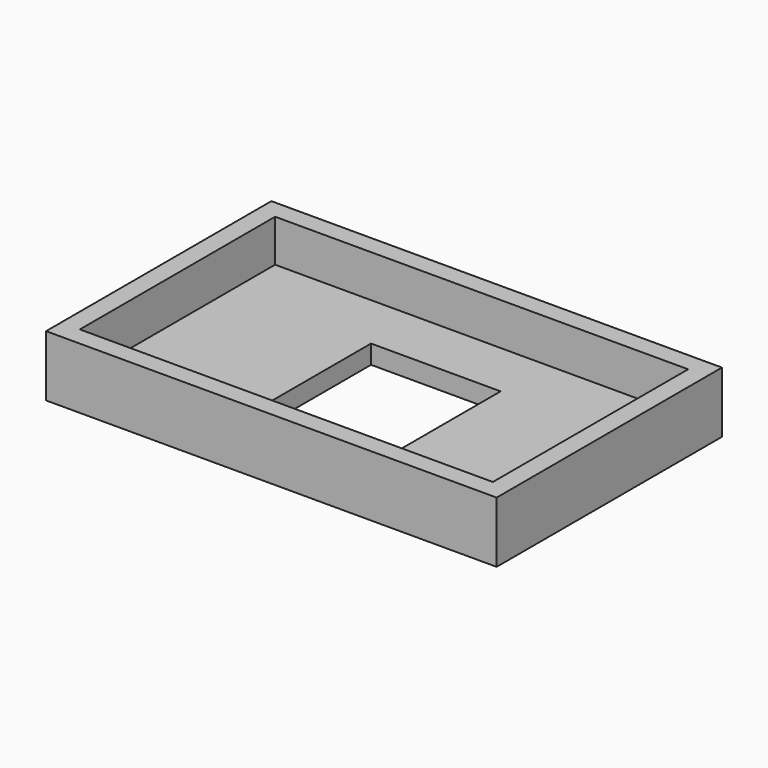
from build123d import *

# Parameters (mm, degrees)
SKETCH_W      = 48
SKETCH_H      = 30
PAD_DEPTH     = 2
SKETCH001_W   = 48
SKETCH001_H   = 30
SKETCH001_W_2 = 44
SKETCH001_H_2 = 26
PAD001_DEPTH  = 4.5
SKETCH002_W   = 13.8
SKETCH002_H   = 14.8
POCKET_DEPTH  = 2


with BuildPart() as part:
    # Sketch → Pad (new body)
    with BuildSketch(Plane.XY):
        with Locations((24, 15)):
            Rectangle(SKETCH_W, SKETCH_H)
    extrude(amount=PAD_DEPTH)

    # Sketch001 (on Face6 of Pad) → Pad001 (join)
    with BuildSketch(Plane.XY.offset(2)):
        with Locations((24, 15)):
            Rectangle(SKETCH001_W, SKETCH001_H)
        with Locations((24, 15)):
            Rectangle(SKETCH001_W_2, SKETCH001_H_2, mode=Mode.SUBTRACT)
    extrude(amount=PAD001_DEPTH)

    # Sketch002 (on Face15 of Pad001) → Pocket (cut)
    with BuildSketch(Plane.XY.offset(2)):
        with Locations((24, 14.5)):
            Rectangle(SKETCH002_W, SKETCH002_H)
    extrude(amount=-POCKET_DEPTH, mode=Mode.SUBTRACT)


solid = part.part
